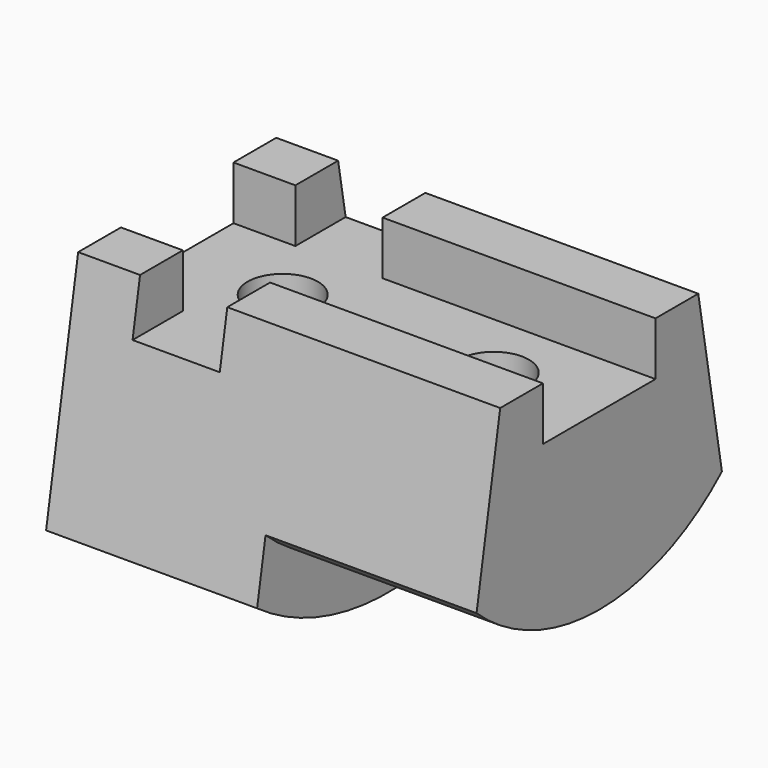
from build123d import *

# Parameters (mm, degrees)
PAD_DEPTH       = 38.1
SKETCH001_R     = 50.8
SKETCH001_R_2   = 41.148
POCKET_DEPTH    = 38.101
SKETCH002_R     = 6.35
POCKET001_DEPTH = 50.801
POCKET002_DEPTH = 9.652


with BuildPart() as part:
    # Sketch → Pad (new body, symmetric)
    with BuildSketch(Plane.YZ):
        with BuildLine():
            ThreePointArc((-29.591, -41.2918), (0, -50.8), (29.591, -41.2918))
            Line((29.591, -41.2918), (22.352, 0))
            Line((22.352, 0), (-22.352, 0))
            Line((-29.591, -41.2918), (-22.352, 0))
        make_face()
    extrude(amount=PAD_DEPTH, both=True)

    # Sketch001 → Pocket (cut, through all)
    with BuildSketch(Plane.YZ):
        Circle(SKETCH001_R)
        Circle(SKETCH001_R_2, mode=Mode.SUBTRACT)
    extrude(amount=POCKET_DEPTH, mode=Mode.SUBTRACT)

    # Sketch002 → Pocket001 (cut, through all)
    with BuildSketch(Plane.XY):
        with Locations((-19.05, 0)):
            Circle(SKETCH002_R)
        with Locations((19.05, 0)):
            Circle(SKETCH002_R)
    extrude(amount=-POCKET001_DEPTH, mode=Mode.SUBTRACT)

    # Sketch003 → Pocket002 (cut)
    with BuildSketch(Plane.XY):
        Polygon((-26.924, 31.75), (-11.176, 31.75), (-11.176, 12.7), (38.1, 12.7), (38.1, -12.7), (-11.176, -12.7), (-11.176, -31.75), (-26.924, -31.75), (-26.924, -12.7), (-38.1, -12.7), (-38.1, 12.7), (-26.924, 12.7), align=None)
    extrude(amount=-POCKET002_DEPTH, mode=Mode.SUBTRACT)


solid = part.part
